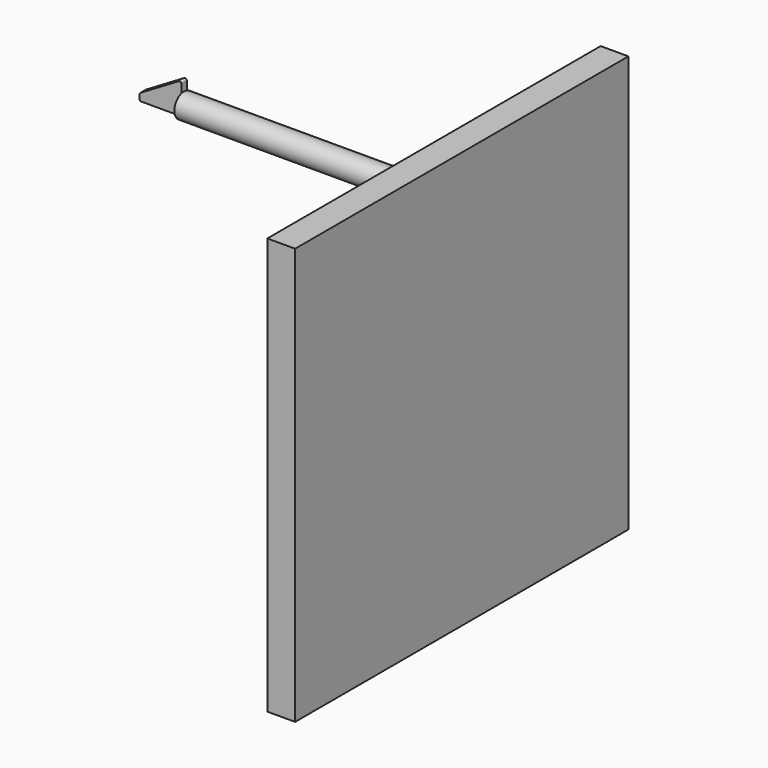
from build123d import *

# Parameters (mm, degrees)
F1_DEPTH = 3.175
F2_R     = 11.049
F3_DEPTH = 228.6
F4_W     = 381
F4_H     = 381
F5_DEPTH = 25.4


with BuildPart() as f1:
    # F0 (on Front) → F1 (new body, symmetric)
    with BuildSketch(Plane.XZ):
        with BuildLine():
            Line((0, -6.223), (0, 18.5326917232))
            ThreePointArc((0, 18.5326917232), (-0.7698692632, 19.8570265871), (-2.3016572596, 19.843350026))
            Line((-2.3016572596, 19.843350026), (-37.3536572596, -0.954169974))
            ThreePointArc((-37.3536572596, -0.954169974), (-37.9003348639, -1.51069754), (-38.1, -2.2648282768))
            Line((-38.1, -2.2648282768), (-38.1, -6.223))
            ThreePointArc((-38.1, -6.223), (-37.6536307345, -7.3006307345), (-36.576, -7.747))
            Line((-36.576, -7.747), (-1.524, -7.747))
            ThreePointArc((-1.524, -7.747), (-0.4463692655, -7.3006307345), (0, -6.223))
        make_face()
    extrude(amount=F1_DEPTH, both=True)

    # F2 (on Right) → F3 (join)
    with BuildSketch(Plane.YZ):
        Circle(F2_R)
    extrude(amount=F3_DEPTH)

    # F4 (on face) → F5 (join)
    with BuildSketch(Plane.YZ.offset(228.6)):
        with Locations((0, -146.05)):
            Rectangle(F4_W, F4_H)
    extrude(amount=F5_DEPTH)


solid = f1.part
